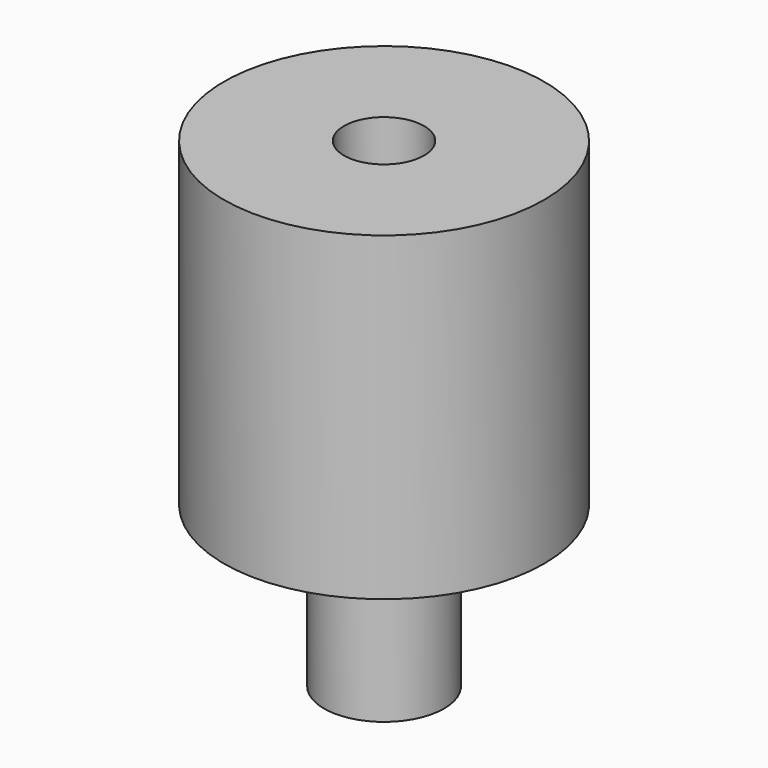
from build123d import *

# Parameters (mm, degrees)
F0_R     = 38.1
F1_DEPTH = 101.6
F2_R     = 101.6
F2_R_2   = 38.1
F3_DEPTH = 203.2
F4_R     = 25.4
F5_DEPTH = 50.8


with BuildPart() as f1:
    # F0 (on Top) → F1 (new body)
    with BuildSketch(Plane.XY):
        Circle(F0_R)
        Polygon((-19.05, 7.890768), (-7.890768, 19.05), (7.890768, 19.05), (19.05, 7.890768), (19.05, -7.890768), (7.890768, -19.05), (-7.890768, -19.05), (-19.05, -7.890768), align=None, mode=Mode.SUBTRACT)
    extrude(amount=F1_DEPTH)

    # F2 (on face) → F3 (join)
    with BuildSketch(Plane.XY.offset(101.6)):
        Circle(F2_R)
        Circle(F2_R_2, mode=Mode.SUBTRACT)
        Circle(F2_R)
    extrude(amount=F3_DEPTH)

    # F4 (on face) → F5 (cut)
    with BuildSketch(Plane.XY.offset(304.8)):
        Circle(F4_R)
    extrude(amount=-F5_DEPTH, mode=Mode.SUBTRACT)


solid = f1.part
